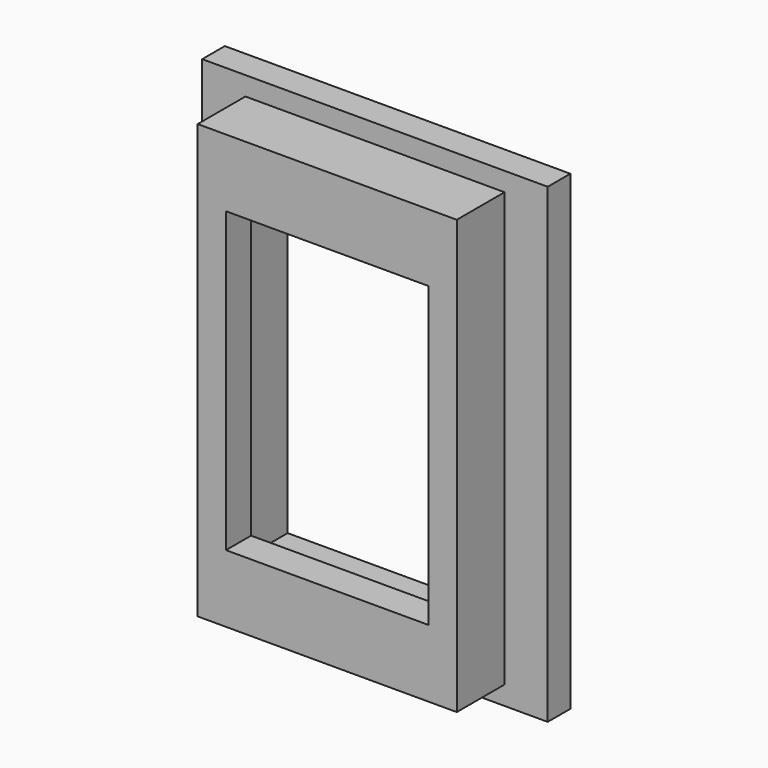
from build123d import *

# Parameters (mm, degrees)
F0_W     = 22
F0_H     = 30
F1_DEPTH = 1.8
F2_W     = 16.5
F2_H     = 27.6
F3_DEPTH = 3.8
F4_W     = 12.9
F4_H     = 19
F5_DEPTH = 25
F6_W     = 14
F6_H     = 22
F7_DEPTH = 3.6


with BuildPart() as f1:
    # F0 (on Front) → F1 (new body)
    with BuildSketch(Plane.XZ):
        Rectangle(F0_W, F0_H)
    extrude(amount=F1_DEPTH)

    # F2 (on face) → F3 (join)
    with BuildSketch(Plane.XZ.offset(1.8)):
        Rectangle(F2_W, F2_H)
    extrude(amount=F3_DEPTH)

    # F4 (on face) → F5 (cut)
    with BuildSketch(Plane.XZ.offset(5.6)):
        Rectangle(F4_W, F4_H)
    extrude(amount=-F5_DEPTH, mode=Mode.SUBTRACT)

    # F6 (on face) → F7 (cut)
    with BuildSketch(Plane(origin=(0, 0, 0), x_dir=(-1, 0, 0), z_dir=(0, 1, 0))):
        Rectangle(F6_W, F6_H)
    extrude(amount=-F7_DEPTH, mode=Mode.SUBTRACT)


solid = f1.part
